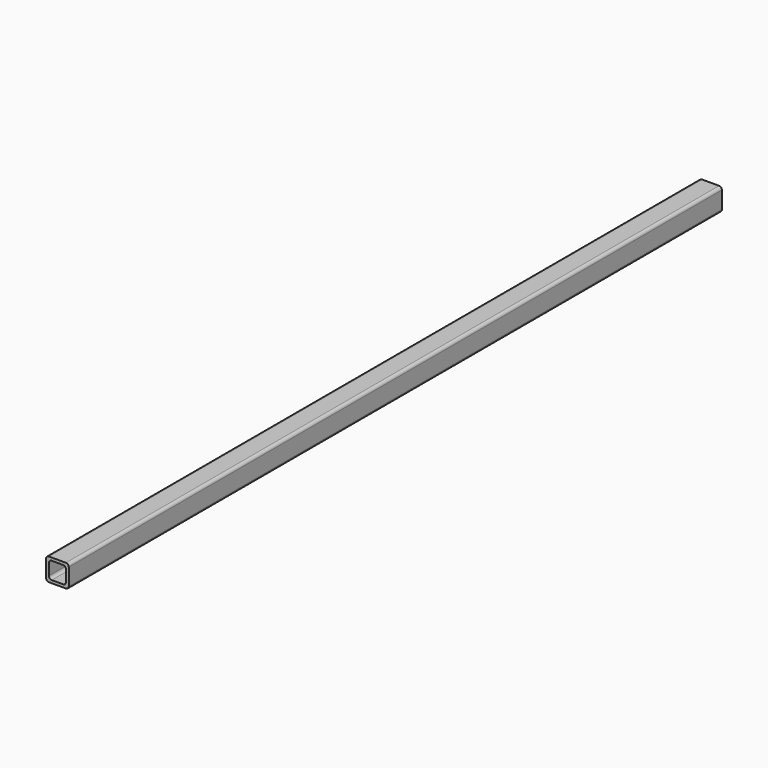
from build123d import *

# Parameters (mm, degrees)
F0_W     = 50.8
F0_H     = 50.8
F0_W_2   = 38.1
F0_H_2   = 38.1
F1_DEPTH = 914.4
F2_R     = 6.35


with BuildPart() as f1:
    # F0 (on Front) → F1 (new body, symmetric)
    with BuildSketch(Plane.XZ):
        Rectangle(F0_W, F0_H)
        Rectangle(F0_W_2, F0_H_2, mode=Mode.SUBTRACT)
    extrude(amount=F1_DEPTH, both=True)

    # F2
    f2_edges = [f1.edges().sort_by_distance(p)[0] for p in [
        (-19.05, 0, 19.05),
        (25.4, 0, -25.4),
        (-25.4, 0, -25.4),
        (25.4, 0, 25.4),
        (19.05, 0, -19.05),
        (-25.4, 0, 25.4),
        (19.05, 0, 19.05),
        (-19.05, 0, -19.05),
    ]]
    fillet(f2_edges, radius=F2_R)


solid = f1.part
